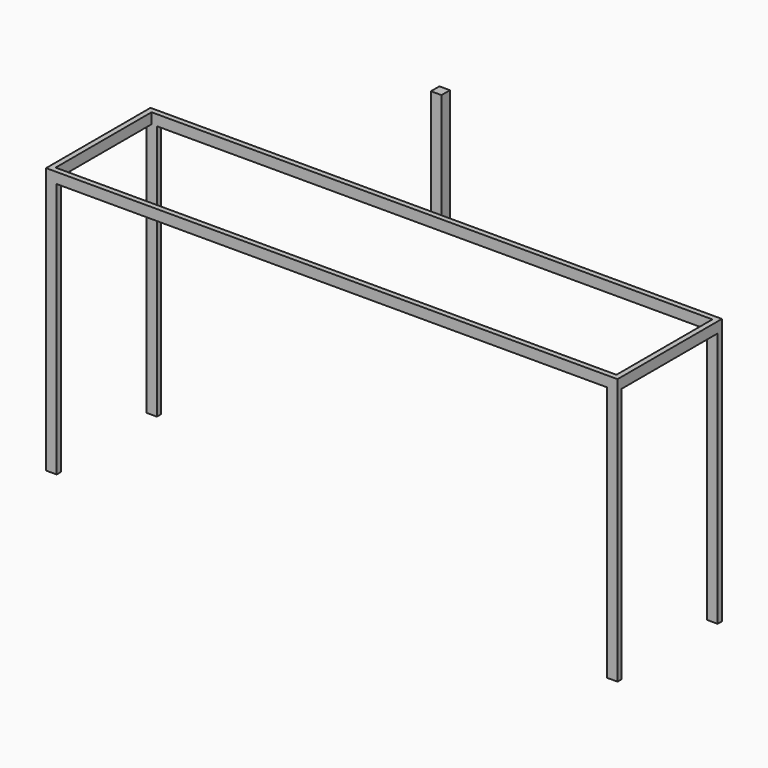
from build123d import *

# Parameters (mm, degrees)
F0_W     = 2057.4
F0_H     = 469.9
F0_W_2   = 2019.3
F0_H_2   = 431.8
F1_DEPTH = 479.425
F2_W     = 1981.2
F2_H     = 920.75
F3_DEPTH = 469.901
F4_W     = 431.8
F4_H     = 920.75
F5_DEPTH = 2057.401
F6_W     = 38.1
F6_H     = 38.1
F7_DEPTH = 38.1
F8_W     = 38.1
F8_H     = 38.1
F9_DEPTH = 381


with BuildPart() as f1:
    # F0 (on Top) → F1 (new body, symmetric)
    with BuildSketch(Plane.XY):
        Rectangle(F0_W, F0_H)
        Rectangle(F0_W_2, F0_H_2, mode=Mode.SUBTRACT)
    extrude(amount=F1_DEPTH, both=True)

    # F2 (on face) → F3 (cut, through all)
    with BuildSketch(Plane.XZ.offset(234.95)):
        with Locations((0, -19.05)):
            Rectangle(F2_W, F2_H)
    extrude(amount=-F3_DEPTH, mode=Mode.SUBTRACT)

    # F4 (on face) → F5 (cut, through all)
    with BuildSketch(Plane(origin=(-1028.7, 0, 0), x_dir=(0, -1, 0), z_dir=(-1, 0, 0))):
        with Locations((0, -19.05)):
            Rectangle(F4_W, F4_H)
    extrude(amount=-F5_DEPTH, mode=Mode.SUBTRACT)

    # F6 (on face) → F7 (join)
    with BuildSketch(Plane(origin=(0, 234.95, 0), x_dir=(-1, 0, 0), z_dir=(0, 1, 0))):
        with Locations((0, 460.375)):
            Rectangle(F6_W, F6_H)
    extrude(amount=F7_DEPTH)

    # F8 (on face) → F9 (join)
    with BuildSketch(Plane.XY.offset(479.425)):
        with Locations((0, 254)):
            Rectangle(F8_W, F8_H)
    extrude(amount=F9_DEPTH)


solid = f1.part
